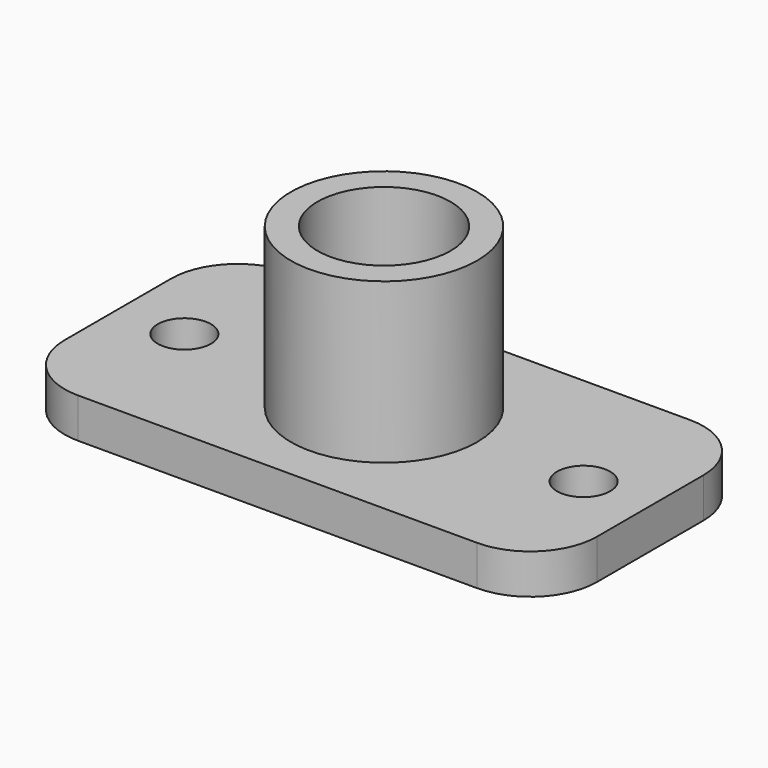
from build123d import *

# Parameters (mm, degrees)
F0_W     = 40
F0_H     = 20
F0_R     = 2
F0_R_2   = 7
F0_R_3   = 5
F1_DEPTH = 3
F2_DEPTH = 15
F3_R     = 5


with BuildPart() as f1:
    # F0 (on Top) → F1 (new body)
    with BuildSketch(Plane.XY):
        Rectangle(F0_W, F0_H)
        with Locations((-15, 0)):
            Circle(F0_R, mode=Mode.SUBTRACT)
        Circle(F0_R_2, mode=Mode.SUBTRACT)
        with Locations((15, 0)):
            Circle(F0_R, mode=Mode.SUBTRACT)
        Circle(F0_R_2)
        Circle(F0_R_3, mode=Mode.SUBTRACT)
    extrude(amount=F1_DEPTH)

    # F0 (on Top) → F2 (join)
    with BuildSketch(Plane.XY):
        Circle(F0_R_2)
        Circle(F0_R_3, mode=Mode.SUBTRACT)
    extrude(amount=F2_DEPTH)

    # F3
    f3_edges = [f1.edges().sort_by_distance(p)[0] for p in [
        (-20, 10, 1.5),
        (-20, -10, 1.5),
        (20, -10, 1.5),
        (20, 10, 1.5),
    ]]
    fillet(f3_edges, radius=F3_R)


solid = f1.part
